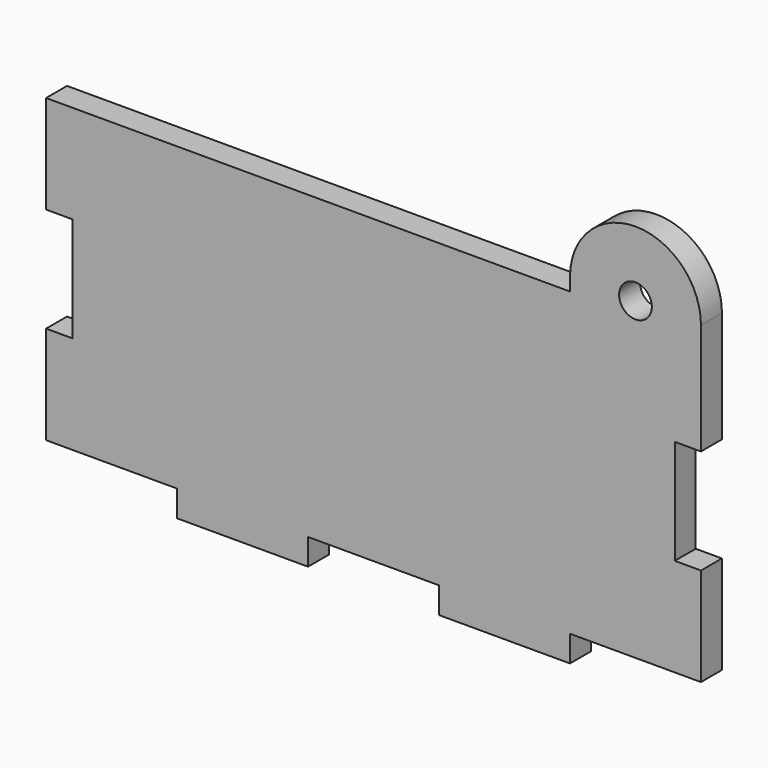
from build123d import *

# Parameters (mm, degrees)
F0_R     = 2.5
F1_DEPTH = 4


with BuildPart() as f1:
    # F0 (on Front) → F1 (new body)
    with BuildSketch(Plane.XZ):
        with BuildLine():
            Line((20, 4), (20, 0))
            Line((20, 0), (40, 0))
            Line((40, 0), (40, 4))
            Line((40, 4), (60, 4))
            Line((60, 4), (60, 0))
            Line((60, 0), (80, 0))
            Line((80, 0), (80, 4))
            Line((80, 4), (100, 4))
            Line((100, 4), (100, 19))
            Line((100, 19), (96, 19))
            Line((96, 19), (96, 35))
            Line((96, 35), (100, 35))
            Line((100, 35), (100, 50))
            Line((100, 50), (100, 52))
            ThreePointArc((100, 52), (90, 62), (80, 52))
            Line((80, 52), (80, 50))
            Line((80, 50), (0, 50))
            Line((0, 50), (0, 35))
            Line((0, 35), (4, 35))
            Line((4, 35), (4, 19))
            Line((4, 19), (0, 19))
            Line((0, 19), (0, 4))
            Line((0, 4), (20, 4))
        make_face()
        with Locations((90, 52)):
            Circle(F0_R, mode=Mode.SUBTRACT)
    extrude(amount=F1_DEPTH)


solid = f1.part
